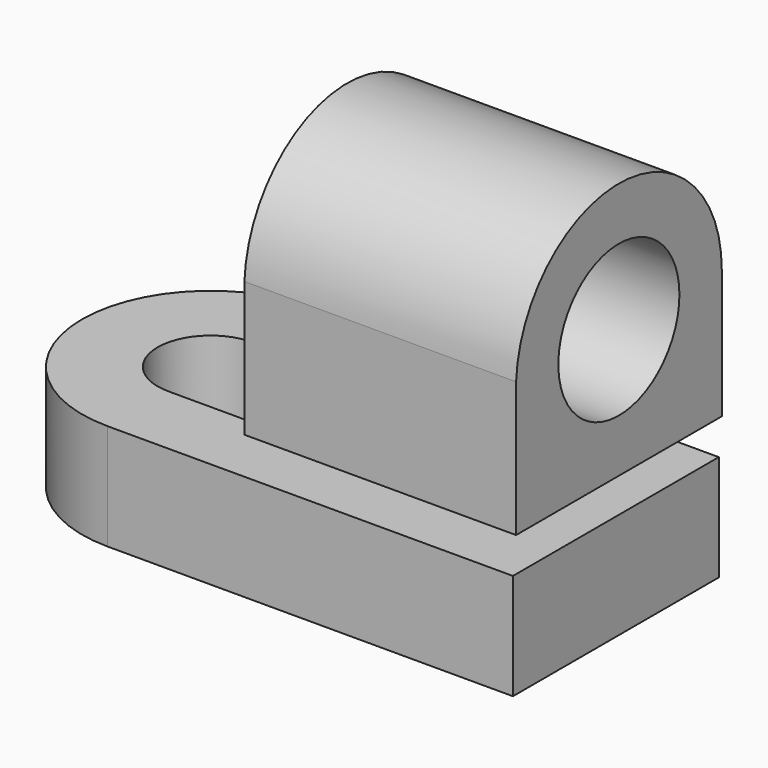
from build123d import *

# Parameters (mm, degrees)
F1_DEPTH = 14
F2_R     = 10
F3_DEPTH = 35.9


with BuildPart() as f1:
    # F0 (on Top) → F1 (new body)
    with BuildSketch(Plane.XY):
        with BuildLine():
            Line((35.5, 17), (-18.04794, 17))
            ThreePointArc((-18.04794, 17), (-35.04794, 0), (-18.04794, -17))
            Line((-18.04794, -17), (35.5, -17))
            Line((35.5, -17), (35.5, 17))
        make_face()
        with BuildLine():
            ThreePointArc((-17.893125, -6.998288), (-25.04794, 0), (-17.893125, 6.998288))
            Line((-17.893125, 6.998288), (5.684238, 6.998288))
            ThreePointArc((5.684238, 6.998288), (5.818149, 6.999569), (5.95206, 6.998288))
            ThreePointArc((5.95206, 6.998288), (12.818149, -0.000431), (5.95206, -6.99915))
            ThreePointArc((5.95206, -6.99915), (5.818149, -7.000431), (5.684238, -6.99915))
            Line((5.684238, -6.99915), (-17.893125, -6.99915))
            Line((-17.893125, -6.99915), (-17.893125, -6.998288))
        make_face(mode=Mode.SUBTRACT)
    extrude(amount=F1_DEPTH)


with BuildPart() as f3:
    # F2 (on Right) → F3 (new body)
    with BuildSketch(Plane.YZ):
        with BuildLine():
            Line((-16.979605, 35.040238), (-16.979605, 18.872713))
            Line((-16.979605, 18.872713), (17.020395, 18.872713))
            Line((17.020395, 18.872713), (17, 35.872713))
            ThreePointArc((17, 35.872713), (0.416363, 52.867614), (-16.979605, 36.705189))
            Line((-16.979605, 36.705189), (-16.979605, 35.040238))
        make_face()
        with Locations((0, 35.872713)):
            Circle(F2_R, mode=Mode.SUBTRACT)
    extrude(amount=F3_DEPTH)


solid = Compound([f1.part, f3.part])
